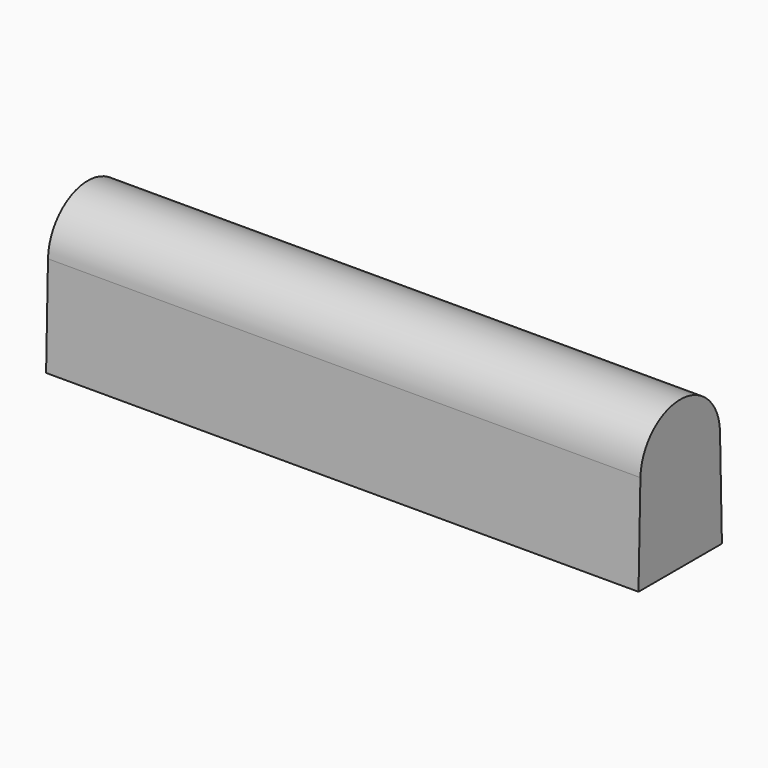
from build123d import *

# Parameters (mm, degrees)
PAD_DEPTH = 37.5


with BuildPart() as part:
    # Sketch002 → Pad (new body, symmetric)
    with BuildSketch(Plane.YZ):
        with BuildLine():
            ThreePointArc((6.298194, 12.60085), (0, 18.75), (-6.298194, 12.60085))
            Line((-6.298194, 12.60085), (-6.6, 0))
            Line((-6.6, 0), (6.6, 0))
            Line((6.6, 0), (6.298194, 12.60085))
        make_face()
    extrude(amount=PAD_DEPTH, both=True)


solid = part.part
